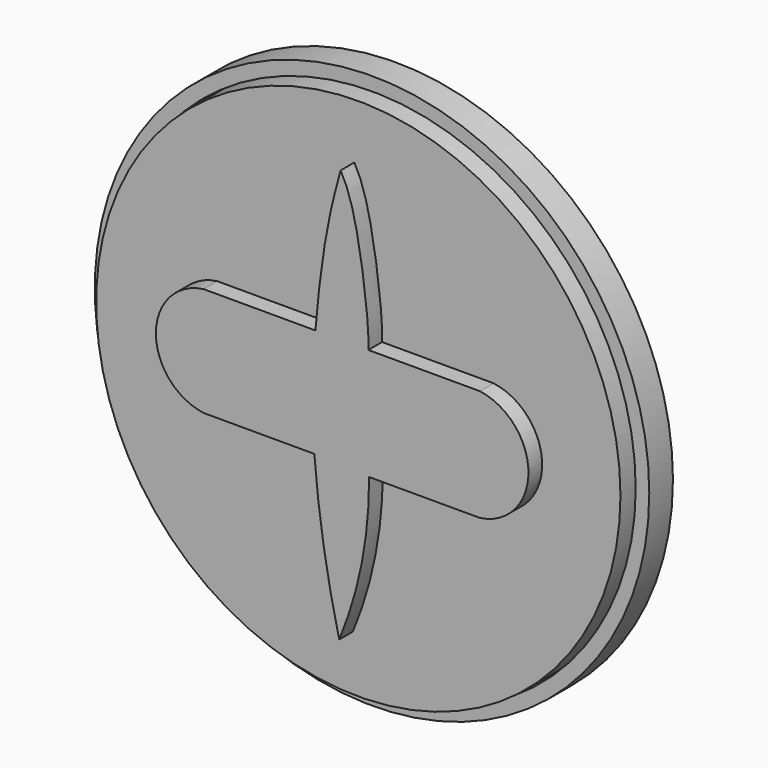
from build123d import *

# Parameters (mm, degrees)
F0_R     = 45.2096940333
F0_R_2   = 42.9959145062
F1_DEPTH = 4.826
F2_R     = 42.7475705769
F3_DEPTH = 7.62
F5_DEPTH = 2.794


with BuildPart() as f1:
    # F0 (on Front) → F1 (new body)
    with BuildSketch(Plane.XZ):
        Circle(F0_R)
        Circle(F0_R_2, mode=Mode.SUBTRACT)
    extrude(amount=F1_DEPTH)


with BuildPart() as f3:
    # F2 (on Front) → F3 (new body)
    with BuildSketch(Plane.XZ):
        Circle(F2_R)
    extrude(amount=F3_DEPTH)

    # F4 (on face) → F5 (join)
    with BuildSketch(Plane.XZ.offset(7.62)):
        with BuildLine():
            add(Edge.make_bspline(
                [(-0.6543919444, 33.698104322), (-0.2590268137, 32.9683653971), (0.8003411255, 31.0130538107), (2.6219964959, 23.619319648), (3.9236973733, 12.8800810427), (3.88602667, 10.3007600876), (3.8727382198, 9.3908971176)],
                knots=[0, 0, 0, 0, 0.1736123025, 0.4651884874, 0.8113436832, 1, 1, 1, 1], degree=3))
            add(Edge.make_bspline(
                [(-0.6543919444, 33.698104322), (-1.2292204105, 31.5904283328), (-2.4683528149, 27.0470040412), (-3.9833158516, 18.0359036672), (-4.5052875268, 12.2530715191), (-4.7636339441, 9.3908971176)],
                knots=[0, 0, 0, 0, 0.3041204354, 0.6555790268, 1, 1, 1, 1], degree=3))
            Line((-4.7636339441, 9.3908971176), (-22.9926649481, 9.3908971176))
            ThreePointArc((-22.9926649481, 9.3908971176), (-30.7737027326, 0.5017137155), (-22.9926649481, -8.3874696866))
            Line((-22.9926649481, -8.3874696866), (-4.9365786836, -8.3874696866))
            ThreePointArc((-4.9365786836, -8.3874696866), (-3.4143222248, -21.1358112445), (-0.8819333743, -33.7224900723))
            ThreePointArc((-0.8819333743, -33.7224900723), (2.8026793905, -21.5060781732), (3.9915125817, -8.8015999645))
            Line((3.9915125817, -8.8015999645), (22.0647267997, -8.8015999645))
            ThreePointArc((22.0647267997, -8.8015999645), (29.9763005809, 0.2946485765), (22.0647267997, 9.3908971176))
            Line((22.0647267997, 9.3908971176), (3.8727382198, 9.3908971176))
        make_face()
    extrude(amount=F5_DEPTH)


solid = Compound([f1.part, f3.part])
